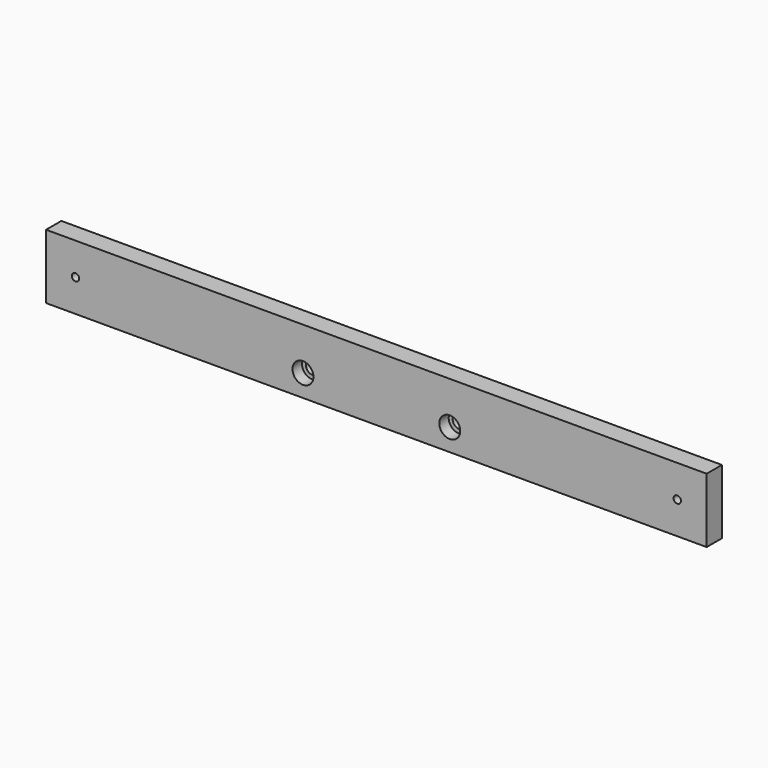
from build123d import *

# Parameters (mm, degrees)
F0_W           = 450
F0_H           = 44
F1_DEPTH       = 13
F3_D           = 5
F4_D           = 8.8
F4_CBORE_D     = 14.25
F4_CBORE_DEPTH = 8


with BuildPart() as f1:
    # F0 (on Front) → F1 (new body)
    with BuildSketch(Plane.XZ):
        with Locations((-225, 22)):
            Rectangle(F0_W, F0_H)
        with Locations((-225, 22)):
            Rectangle(F0_W, F0_H)
    extrude(amount=F1_DEPTH)

    # F3 (through all)
    with Locations(Plane.XZ.offset(13)):
        with Locations((-430, 22), (-20, 22)):
            Hole(F3_D / 2)

    # F4 (through all)
    with Locations(Plane.XZ.offset(13)):
        with Locations((-275, 15), (-175, 15)):
            CounterBoreHole(F4_D / 2, F4_CBORE_D / 2, F4_CBORE_DEPTH)


solid = f1.part
